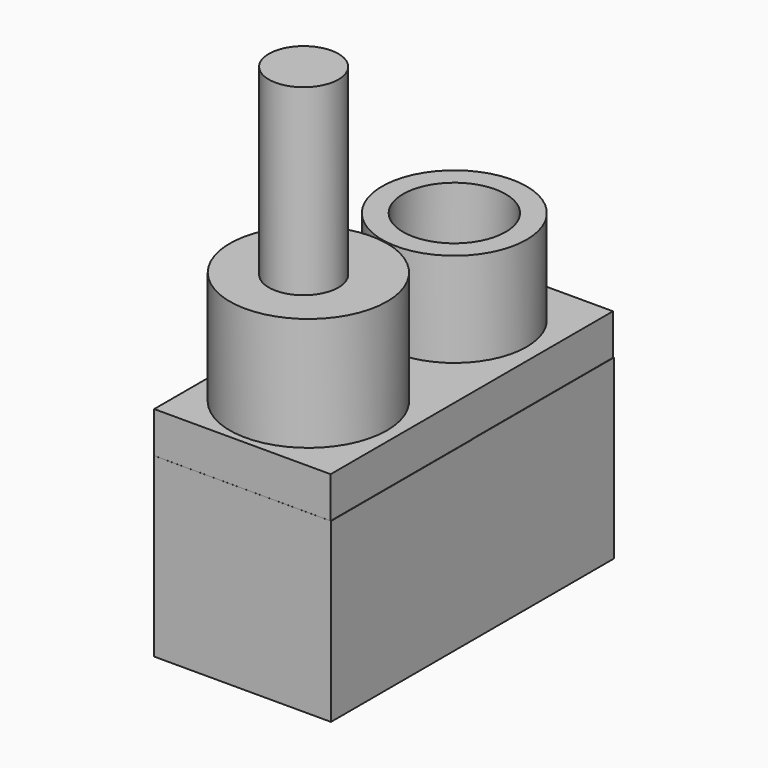
from build123d import *

# Parameters (mm, degrees)
F0_W      = 39.9796
F0_H      = 39.968465
F1_DEPTH  = 40.0304
F2_R      = 16.341879
F2_R_2    = 11.603864
F3_DEPTH  = 70.612
F4_W      = 39.9796
F4_H      = 39.9796
F5_DEPTH  = 39.9796
F6_R      = 17.778332
F7_DEPTH  = 74.93
F8_W      = 39.895397
F8_H      = 39.822329
F8_H_2    = 39.968465
F9_DEPTH  = 49.276
F10_R     = 7.86972
F11_DEPTH = 116.332


with BuildPart() as f1:
    # F0 (on Top) → F1 (new body)
    with BuildSketch(Plane.XY):
        with Locations((19.9898, 19.984232)):
            Rectangle(F0_W, F0_H)
    extrude(amount=F1_DEPTH)

    # F2 (on Top) → F3 (join)
    with BuildSketch(Plane.XY):
        with Locations((20.166904, 19.655425)):
            Circle(F2_R)
        with Locations((20.166904, 19.655425)):
            Circle(F2_R_2, mode=Mode.SUBTRACT)
    extrude(amount=F3_DEPTH)

    # F4 (on Top) → F5 (join)
    with BuildSketch(Plane.XY):
        with Locations((19.9898, -19.9898)):
            Rectangle(F4_W, F4_H)
    extrude(amount=F5_DEPTH)

    # F6 (on Top) → F7 (join)
    with BuildSketch(Plane.XY):
        with Locations((19.436218, -20.678384)):
            Circle(F6_R)
    extrude(amount=F7_DEPTH)

    # F8 (on Top) → F9 (join)
    with BuildSketch(Plane.XY):
        with Locations((19.947698, 19.911164)):
            Rectangle(F8_W, F8_H)
        with Locations((19.947698, -19.984232)):
            Rectangle(F8_W, F8_H_2)
    extrude(amount=F9_DEPTH)

    # F10 (on Top) → F11 (join)
    with BuildSketch(Plane.XY):
        with Locations((19.290084, -21.847481)):
            Circle(F10_R)
    extrude(amount=F11_DEPTH)


solid = f1.part
